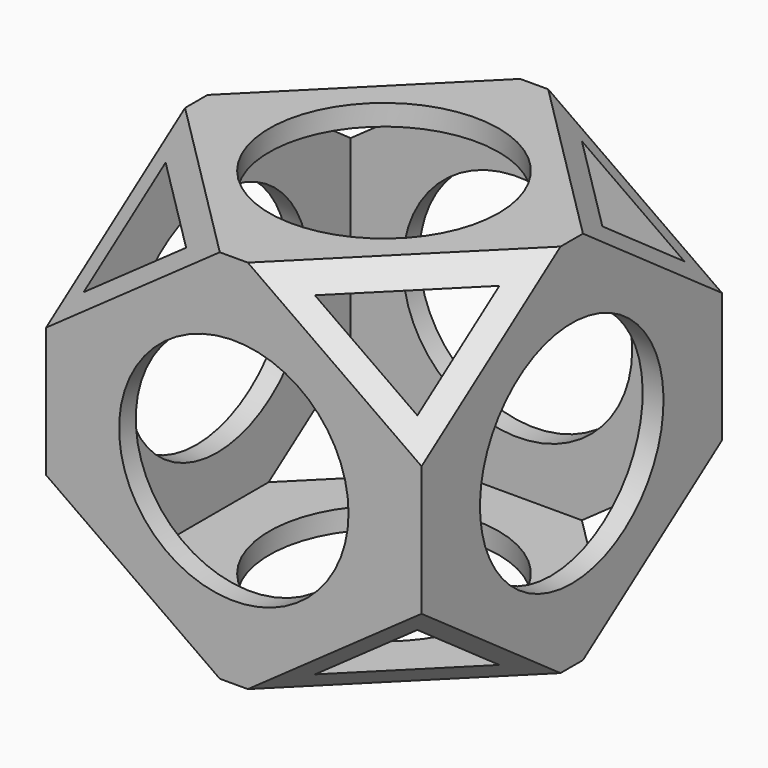
from build123d import *

# Parameters (mm, degrees)
BOX004_W                = 140
BOX004_H                = 112
BOX004_DEPTH            = 112
BOX004_ROLL_ANGLE       = 45
BOX004_PLACEMENT_ANGLE  = -45
BOX005_W                = 180
BOX005_H                = 180
BOX005_DEPTH            = 180
BOX005_ROLL_ANGLE       = 45
BOX005_PLACEMENT_ANGLE  = -45
BOX002_W                = 140
BOX002_H                = 112
BOX002_DEPTH            = 112
BOX002_ROLL_ANGLE       = 45
BOX002_PLACEMENT_ANGLE  = 45
BOX003_W                = 180
BOX003_H                = 180
BOX003_DEPTH            = 180
BOX003_ROLL_ANGLE       = 45
BOX003_PLACEMENT_ANGLE  = 45
CYLINDER_R              = 27.5
CYLINDER_DEPTH          = 120
CYLINDER001_R           = 27.5
CYLINDER001_DEPTH       = 120
CYLINDER001_ROLL_ANGLE  = 90
CYLINDER002_R           = 27.5
CYLINDER002_DEPTH       = 120
CYLINDER002_PITCH_ANGLE = 90
BOX001_W                = 80
BOX001_H                = 80
BOX001_DEPTH            = 80
BOX_W                   = 90
BOX_H                   = 90
BOX_DEPTH               = 90


with BuildPart() as box004:
    # Box004 → Box004 (new body)
    with BuildSketch(Plane.XY):
        with Locations((70, 56)):
            Rectangle(BOX004_W, BOX004_H)
    extrude(amount=BOX004_DEPTH)


with BuildPart() as box004_1:
    # Box004 roll: moved
    add(box004.part.rotate(Axis((0, 0, 0), (1, 0, 0)), BOX004_ROLL_ANGLE))


with BuildPart() as box004_2:
    # Box004 placement: moved
    add(box004_1.part.moved(Location((-49.497475, 49.497475, -79.195959))).rotate(Axis((-49.497475, 49.497475, -79.195959), (0, 0, 1)), BOX004_PLACEMENT_ANGLE))


with BuildPart() as cut002:
    # Box005 → Box005 (new body)
    with BuildSketch(Plane.XY):
        with Locations((90, 90)):
            Rectangle(BOX005_W, BOX005_H)
    extrude(amount=BOX005_DEPTH)


with BuildPart() as cut002_1:
    # Box005 roll: moved
    add(cut002.part.rotate(Axis((0, 0, 0), (1, 0, 0)), BOX005_ROLL_ANGLE))


with BuildPart() as cut002_2:
    # Box005 placement: moved
    add(cut002_1.part.moved(Location((-63.63961, 63.63961, -127.279221))).rotate(Axis((-63.63961, 63.63961, -127.279221), (0, 0, 1)), BOX005_PLACEMENT_ANGLE))

    # Cut002: cut Box004
    add(box004_2.part, mode=Mode.SUBTRACT)


with BuildPart() as box002:
    # Box002 → Box002 (new body)
    with BuildSketch(Plane.XY):
        with Locations((70, 56)):
            Rectangle(BOX002_W, BOX002_H)
    extrude(amount=BOX002_DEPTH)


with BuildPart() as box002_1:
    # Box002 roll: moved
    add(box002.part.rotate(Axis((0, 0, 0), (1, 0, 0)), BOX002_ROLL_ANGLE))


with BuildPart() as box002_2:
    # Box002 placement: moved
    add(box002_1.part.moved(Location((-49.497475, -49.497475, -79.195959))).rotate(Axis((-49.497475, -49.497475, -79.195959), (0, 0, 1)), BOX002_PLACEMENT_ANGLE))


with BuildPart() as cut001:
    # Box003 → Box003 (new body)
    with BuildSketch(Plane.XY):
        with Locations((90, 90)):
            Rectangle(BOX003_W, BOX003_H)
    extrude(amount=BOX003_DEPTH)


with BuildPart() as cut001_1:
    # Box003 roll: moved
    add(cut001.part.rotate(Axis((0, 0, 0), (1, 0, 0)), BOX003_ROLL_ANGLE))


with BuildPart() as cut001_2:
    # Box003 placement: moved
    add(cut001_1.part.moved(Location((-63.63961, -63.63961, -127.279221))).rotate(Axis((-63.63961, -63.63961, -127.279221), (0, 0, 1)), BOX003_PLACEMENT_ANGLE))

    # Cut001: cut Box002
    add(box002_2.part, mode=Mode.SUBTRACT)


with BuildPart() as cylinder:
    # Cylinder → Cylinder (new body)
    with BuildSketch(Plane.XY.offset(-60)):
        Circle(CYLINDER_R)
    extrude(amount=CYLINDER_DEPTH)


with BuildPart() as cylinder001:
    # Cylinder001 → Cylinder001 (new body)
    with BuildSketch(Plane.XY):
        Circle(CYLINDER001_R)
    extrude(amount=CYLINDER001_DEPTH)


with BuildPart() as cylinder001_1:
    # Cylinder001 roll: moved
    add(cylinder001.part.rotate(Axis((0, 0, 0), (1, 0, 0)), CYLINDER001_ROLL_ANGLE))


with BuildPart() as cylinder001_2:
    # Cylinder001 placement: moved
    add(cylinder001_1.part.moved(Location((0, 60, 0))))


with BuildPart() as cylinder002:
    # Cylinder002 → Cylinder002 (new body)
    with BuildSketch(Plane.XY):
        Circle(CYLINDER002_R)
    extrude(amount=CYLINDER002_DEPTH)


with BuildPart() as cylinder002_1:
    # Cylinder002 pitch: moved
    add(cylinder002.part.rotate(Axis((0, 0, 0), (0, 1, 0)), CYLINDER002_PITCH_ANGLE))


with BuildPart() as cylinder002_2:
    # Cylinder002 placement: moved
    add(cylinder002_1.part.moved(Location((-60, 0, 0))))


with BuildPart() as fusion:
    # Box001 → Box001 (new body)
    with BuildSketch(Plane(origin=(-40, -40, -40), x_dir=(1, 0, 0), z_dir=(0, 0, 1))):
        with Locations((40, 40)):
            Rectangle(BOX001_W, BOX001_H)
    extrude(amount=BOX001_DEPTH)

    # Fusion: union Cylinder, Cylinder001, Cylinder002
    add(cylinder.part)
    add(cylinder001_2.part)
    add(cylinder002_2.part)


with BuildPart() as cut004:
    # Box → Box (new body)
    with BuildSketch(Plane(origin=(-45, -45, -45), x_dir=(1, 0, 0), z_dir=(0, 0, 1))):
        with Locations((45, 45)):
            Rectangle(BOX_W, BOX_H)
    extrude(amount=BOX_DEPTH)

    # Cut: cut Fusion
    add(fusion.part, mode=Mode.SUBTRACT)

    # Cut003: cut Cut001
    add(cut001_2.part, mode=Mode.SUBTRACT)

    # Cut004: cut Cut002
    add(cut002_2.part, mode=Mode.SUBTRACT)


solid = cut004.part
